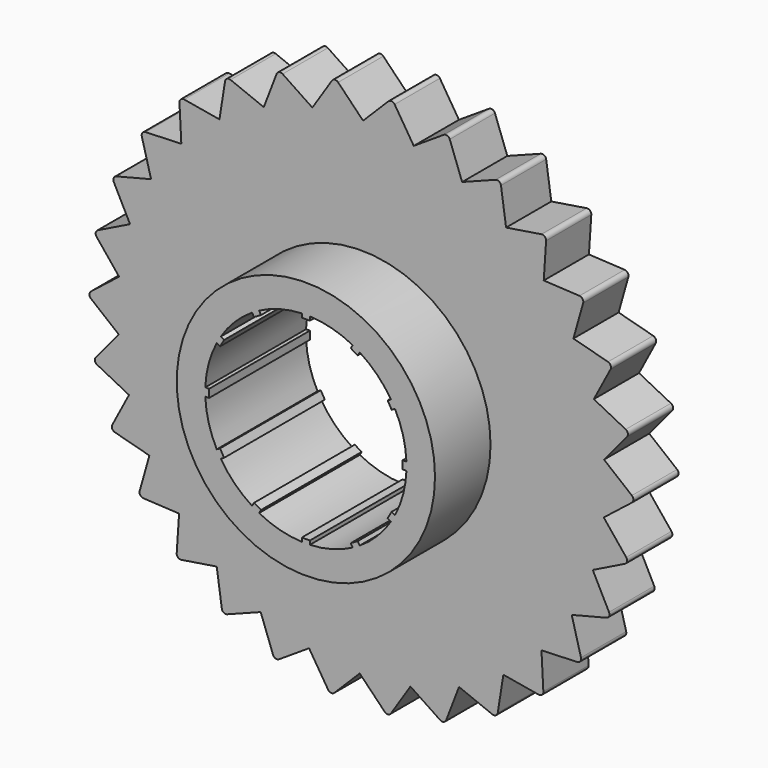
from build123d import *

# Parameters (mm, degrees)
F0_R     = 8
F1_DEPTH = 7.8
F0_R_2   = 15
F2_DEPTH = 3.5
F3_DEPTH = 7.8
F4_COUNT = 12
F6_DEPTH = 3.5
F8_R     = 0.25
F9_COUNT = 30


with BuildPart() as f1:
    # F0 (on Front) → F1 (new body)
    with BuildSketch(Plane.XZ):
        Circle(F0_R)
        with BuildLine():
            ThreePointArc((0.25, 6.229985955), (4.4963304483, 4.3195182023), (6.235, 0))
            ThreePointArc((6.235, 0), (-4.3195182023, -4.4963304483), (-0.25, 6.229985955))
            ThreePointArc((-0.25, 6.229985955), (0, 6.235), (0.25, 6.229985955))
        make_face(mode=Mode.SUBTRACT)
    extrude(amount=F1_DEPTH)

    # F0 (on Front) → F2 (join)
    with BuildSketch(Plane.XZ):
        Circle(F0_R_2)
        Circle(F0_R, mode=Mode.SUBTRACT)
    extrude(amount=F2_DEPTH)

    # F4: F3 ×12 about axis
    f4_axis = Axis((0, 0, 0), (0, -1, 0))


with BuildPart() as f3:
    # F0 (on Front) → F3 (new body)
    with BuildSketch(Plane.XZ):
        with BuildLine():
            Line((0.25, 5.993085955), (0.25, 6.229985955))
            ThreePointArc((0.25, 6.229985955), (0, 6.235), (-0.25, 6.229985955))
            Line((-0.25, 6.229985955), (-0.25, 5.993085955))
            Line((-0.25, 5.993085955), (0.25, 5.993085955))
        make_face()
    extrude(amount=F3_DEPTH)


with BuildPart() as f1_1:
    add(f1.part)
    for i in range(1, F4_COUNT):
        add(f3.part.rotate(f4_axis, i * 360 / F4_COUNT))



with BuildPart() as f6:
    # F5 (on Front) → F6 (new body)
    with BuildSketch(Plane.XZ):
        with BuildLine():
            Line((1.894147114, 16.894147114), (0, 15))
            ThreePointArc((0, 15), (1.6713062771, 14.9066003947), (3.321799308, 14.6275647104))
            Line((3.321799308, 14.6275647104), (1.894147114, 16.894147114))
        make_face()
    extrude(amount=F6_DEPTH)

    # F8
    f8_edges = [f6.edges().sort_by_distance(p)[0] for p in [
        (1.894147, -1.75, 16.894147),
    ]]
    fillet(f8_edges, radius=F8_R)


with BuildPart() as f1_2:
    add(f1_1.part)

    add(f3.part)  # F9 merges F3

    add(f6.part)  # F9 merges F6
    # F9: F6 ×30 about axis
    f9_axis = Axis((0, -8.9512197301, 0), (0, -1, 0))
    for i in range(1, F9_COUNT):
        add(f6.part.rotate(f9_axis, i * 360 / F9_COUNT))


solid = f1_2.part
